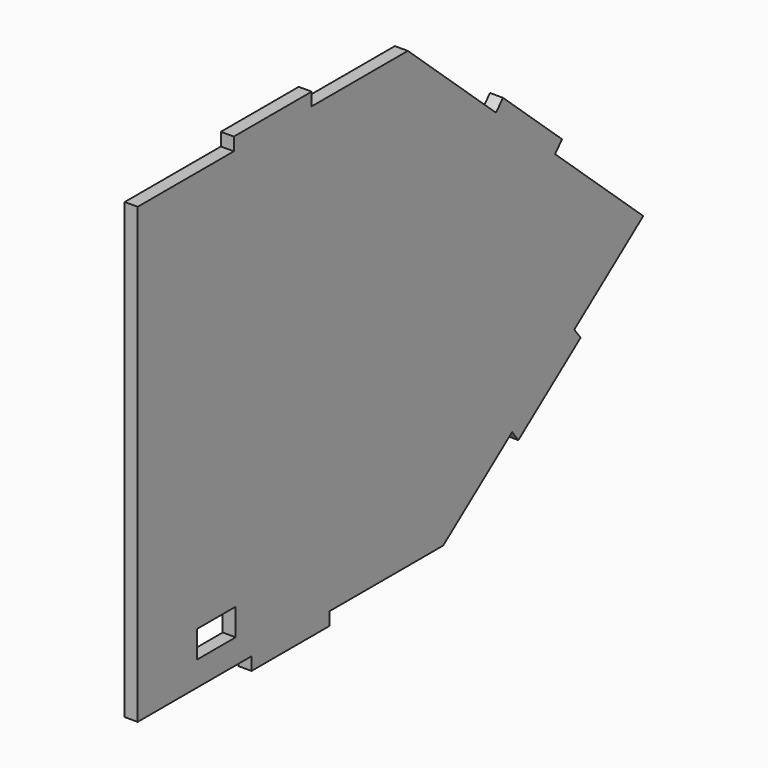
from build123d import *

# Parameters (mm, degrees)
F0_W     = 11.811
F0_H     = 6.604
F1_DEPTH = 3.175


with BuildPart() as f1:
    # F0 (on Right) → F1 (new body)
    with BuildSketch(Plane.YZ):
        Polygon((60.335764, 22.187536), (33.956723, 45.939331), (5.605423, 45.939331), (5.351423, 45.939331), (4.557673, 45.939331), (4.557673, 49.114331), (-7.348577, 49.114331), (-19.254827, 49.114331), (-19.254827, 45.939331), (-20.048577, 45.939331), (-48.653877, 45.939331), (-48.653877, 3.160534), (-48.653877, -22.239466), (-48.653877, -65.018263), (-14.643277, -65.018263), (-13.849527, -65.018263), (-13.849527, -68.193263), (-1.943277, -68.193263), (9.962973, -68.193263), (9.962973, -65.018263), (10.756723, -65.018263), (11.010723, -65.018263), (44.767323, -65.018263), (65.225091, -49.602229), (65.859237, -49.124843), (67.76977, -51.660206), (77.278524, -44.494846), (86.787278, -37.329486), (84.876745, -34.794122), (85.510433, -34.316128), (85.713286, -34.163267), (105.9682, -18.900094), (79.58916, 4.8517), (78.999288, 5.382823), (81.123778, 7.742308), (72.086951, 15.879103), (63.050124, 24.015898), (60.925635, 21.656414), (60.524522, 22.017577), align=None)
        with Locations((-24.587377, -55.671063)):
            Rectangle(F0_W, F0_H, mode=Mode.SUBTRACT)
    extrude(amount=F1_DEPTH)


solid = f1.part
